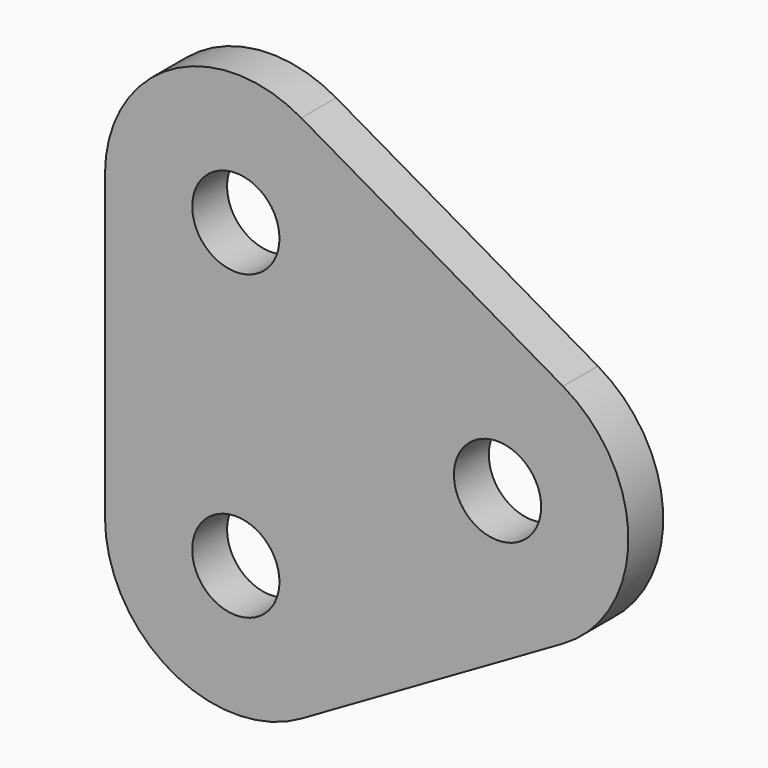
from build123d import *

# Parameters (mm, degrees)
F0_R     = 5
F1_DEPTH = 5


with BuildPart() as f1:
    # F0 (on Front) → F1 (new body)
    with BuildSketch(Plane.XZ):
        with BuildLine():
            ThreePointArc((-2.5, 30.310889), (-17.5, 30.310889), (-25, 17.320508))
            Line((-25, 17.320508), (-25, -17.320508))
            ThreePointArc((-25, -17.320508), (-17.5, -30.310889), (-2.5, -30.310889))
            Line((-2.5, -30.310889), (27.5, -12.990381))
            ThreePointArc((27.5, -12.990381), (35, 0), (27.5, 12.990381))
            Line((27.5, 12.990381), (-2.5, 30.310889))
        make_face()
        with Locations((-10, -17.320508)):
            Circle(F0_R, mode=Mode.SUBTRACT)
        with Locations((-10, 17.320508)):
            Circle(F0_R, mode=Mode.SUBTRACT)
        with Locations((20, 0)):
            Circle(F0_R, mode=Mode.SUBTRACT)
    extrude(amount=F1_DEPTH)


solid = f1.part
